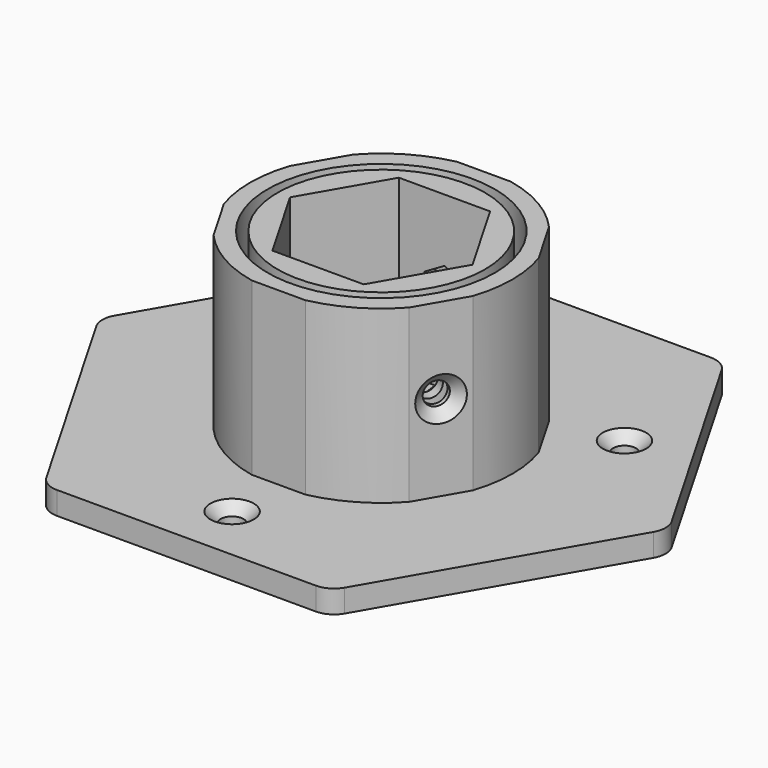
from build123d import *

# Parameters (mm, degrees)
SKETCH008_AS_DRAWN_R                      = 2
EXTRUDE009_DEPTH                          = 10
EXTRUDE009_ONTO_SKETCH008_ROLL_ANGLE      = 90
EXTRUDE009_ONTO_SKETCH008_PLACEMENT_ANGLE = 120
SKETCH007_AS_DRAWN_R                      = 2
EXTRUDE008_DEPTH                          = 10
EXTRUDE008_ONTO_SKETCH007_ROLL_ANGLE      = 90
EXTRUDE008_ONTO_SKETCH007_PLACEMENT_ANGLE = -120
SKETCH006_R                               = 2
EXTRUDE007_DEPTH                          = 10
EXTRUDE006_DEPTH                          = 2.4
EXTRUDE006_ONTO_SKETCH005_ROLL_ANGLE      = 90
EXTRUDE006_ONTO_SKETCH005_PLACEMENT_ANGLE = -120
EXTRUDE005_DEPTH                          = 2.4
EXTRUDE005_ONTO_SKETCH004_ROLL_ANGLE      = 90
EXTRUDE005_ONTO_SKETCH004_PLACEMENT_ANGLE = 120
EXTRUDE004_DEPTH                          = 2.4
SKETCH001_R                               = 18.2
EXTRUDE001_DEPTH                          = 30
SKETCH002_R                               = 19.9
EXTRUDE002_DEPTH                          = 30
CHAMFER_SIZE                              = 1.8
SKETCH009_R                               = 2
EXTRUDE010_DEPTH                          = 10
EXTRUDE_DEPTH                             = 4
CHAMFER001_SIZE                           = 1.8
FILLET_R                                  = 4


with BuildPart() as extrude009:
    # Sketch008 as drawn → Extrude009 (new)
    with BuildSketch(Plane.XY):
        with Locations((16.9806321375, 18.9983442041)):
            Circle(SKETCH008_AS_DRAWN_R)
    extrude(amount=-EXTRUDE009_DEPTH)


with BuildPart() as extrude009_1:
    # Extrude009 onto Sketch008 roll: moved
    add(extrude009.part.rotate(Axis((0, 0, 0), (1, 0, 0)), EXTRUDE009_ONTO_SKETCH008_ROLL_ANGLE))


with BuildPart() as extrude009_2:
    # Extrude009 onto Sketch008 placement: moved
    add(extrude009_1.part.moved(Location((64.4109613985, 37.1876859022, 0))).rotate(Axis((64.4109613985, 37.1876859022, 0), (0, 0, 1)), EXTRUDE009_ONTO_SKETCH008_PLACEMENT_ANGLE))


with BuildPart() as extrude008:
    # Sketch007 as drawn → Extrude008 (new)
    with BuildSketch(Plane.XY):
        with Locations((-86.9724395653, 18.986573062)):
            Circle(SKETCH007_AS_DRAWN_R)
    extrude(amount=-EXTRUDE008_DEPTH)


with BuildPart() as extrude008_1:
    # Extrude008 onto Sketch007 roll: moved
    add(extrude008.part.rotate(Axis((0, 0, 0), (1, 0, 0)), EXTRUDE008_ONTO_SKETCH007_ROLL_ANGLE))


with BuildPart() as extrude008_2:
    # Extrude008 onto Sketch007 placement: moved
    add(extrude008_1.part.moved(Location((40.5890386015, -23.4340923627, 0))).rotate(Axis((40.5890386015, -23.4340923627, 0), (0, 0, 1)), EXTRUDE008_ONTO_SKETCH007_PLACEMENT_ANGLE))


with BuildPart() as extrude007:
    # Sketch006 (on Face29 of Cut002) → Extrude007 (new body)
    with BuildSketch(Plane.XZ.offset(-76.2764064606)):
        with Locations((70.0251825662, 18.9573489466)):
            Circle(SKETCH006_R)
    extrude(amount=-EXTRUDE007_DEPTH)


with BuildPart() as extrude006:
    # Sketch005 as drawn → Extrude006 (new)
    with BuildSketch(Plane.XY):
        Polygon((-86.9724395653, 14.9451211777), (-83.4724395653, 16.9658471198), (-83.4724395653, 21.0072990042), (-86.9724395653, 23.0280249463), (-90.4724395653, 21.0072990042), (-90.4724395653, 16.9658471198), align=None)
    extrude(amount=-EXTRUDE006_DEPTH)


with BuildPart() as extrude006_1:
    # Extrude006 onto Sketch005 roll: moved
    add(extrude006.part.rotate(Axis((0, 0, 0), (1, 0, 0)), EXTRUDE006_ONTO_SKETCH005_ROLL_ANGLE))


with BuildPart() as extrude006_2:
    # Extrude006 onto Sketch005 placement: moved
    add(extrude006_1.part.moved(Location((38.5105776324, -22.2340923627, 0))).rotate(Axis((38.5105776324, -22.2340923627, 0), (0, 0, 1)), EXTRUDE006_ONTO_SKETCH005_PLACEMENT_ANGLE))


with BuildPart() as extrude005:
    # Sketch004 as drawn → Extrude005 (new)
    with BuildSketch(Plane.XY):
        Polygon((16.9806321375, 14.9568923197), (20.4806321375, 16.9776182619), (20.4806321375, 21.0190701462), (16.9806321375, 23.0397960884), (13.4806321375, 21.0190701462), (13.4806321375, 16.9776182619), align=None)
    extrude(amount=-EXTRUDE005_DEPTH)


with BuildPart() as extrude005_1:
    # Extrude005 onto Sketch004 roll: moved
    add(extrude005.part.rotate(Axis((0, 0, 0), (1, 0, 0)), EXTRUDE005_ONTO_SKETCH004_ROLL_ANGLE))


with BuildPart() as extrude005_2:
    # Extrude005 onto Sketch004 placement: moved
    add(extrude005_1.part.moved(Location((66.4894223676, 38.3876859022, 0))).rotate(Axis((66.4894223676, 38.3876859022, 0), (0, 0, 1)), EXTRUDE005_ONTO_SKETCH004_PLACEMENT_ANGLE))


with BuildPart() as extrude004:
    # Sketch003 (on Face4 of Extrude001) → Extrude004 (new body)
    with BuildSketch(Plane.XZ.offset(-73.8764064606)):
        Polygon((70.0251825662, 14.9158970623), (73.5251825662, 16.9366230045), (73.5251825662, 20.9780748888), (70.0251825662, 22.9988008309), (66.5251825662, 20.9780748888), (66.5251825662, 16.9366230045), align=None)
    extrude(amount=-EXTRUDE004_DEPTH)


with BuildPart() as cut005:
    # Sketch001 (on Face8 of Extrude) → Extrude001 (new body)
    with BuildSketch(Plane.XY.offset(4)):
        with Locations((70, 60.02)):
            Circle(SKETCH001_R)
        Polygon((78, 46.1635935394), (86, 60.02), (78, 73.8764064606), (62, 73.8764064606), (54, 60.02), (62, 46.1635935394), align=None, mode=Mode.SUBTRACT)
    extrude(amount=EXTRUDE001_DEPTH)

    # Cut: cut Extrude004
    add(extrude004.part, mode=Mode.SUBTRACT)

    # Cut001: cut Extrude005
    add(extrude005_2.part, mode=Mode.SUBTRACT)

    # Cut002: cut Extrude006
    add(extrude006_2.part, mode=Mode.SUBTRACT)

    # Cut003: cut Extrude007
    add(extrude007.part, mode=Mode.SUBTRACT)

    # Cut004: cut Extrude008
    add(extrude008_2.part, mode=Mode.SUBTRACT)

    # Cut005: cut Extrude009
    add(extrude009_2.part, mode=Mode.SUBTRACT)


with BuildPart() as chamfer_body:
    # Sketch002 (on Face8 of Extrude) → Extrude002 (new body)
    with BuildSketch(Plane.XY.offset(4)):
        with BuildLine():
            Line((87.1547921201, 44.6996505485), (91.8452078799, 52.8236889531))
            ThreePointArc((91.8452078799, 52.8236889531), (93, 60.02), (91.8452078799, 67.2163110469))
            Line((91.8452078799, 67.2163110469), (87.1547921201, 75.3403494515))
            ThreePointArc((87.1547921201, 75.3403494515), (81.5, 79.938584287), (74.6904157598, 82.5366604984))
            Line((74.6904157598, 82.5366604984), (65.3095842402, 82.5366604984))
            ThreePointArc((65.3095842402, 82.5366604984), (58.5, 79.938584287), (52.8452078799, 75.3403494515))
            Line((52.8452078799, 75.3403494515), (48.1547921201, 67.2163110469))
            ThreePointArc((48.1547921201, 67.2163110469), (47, 60.02), (48.1547921201, 52.8236889531))
            Line((48.1547921201, 52.8236889531), (52.8452078799, 44.6996505485))
            ThreePointArc((52.8452078799, 44.6996505485), (58.5, 40.101415713), (65.3095842402, 37.5033395016))
            Line((65.3095842402, 37.5033395016), (74.6904157598, 37.5033395016))
            ThreePointArc((74.6904157598, 37.5033395016), (81.5, 40.101415713), (87.1547921201, 44.6996505485))
        make_face()
        with Locations((70, 60.02)):
            Circle(SKETCH002_R, mode=Mode.SUBTRACT)
    extrude(amount=EXTRUDE002_DEPTH)

    # Cut006: cut Extrude009
    add(extrude009_2.part, mode=Mode.SUBTRACT)

    # Cut007: cut Extrude007
    add(extrude007.part, mode=Mode.SUBTRACT)

    # Cut008: cut Extrude008
    add(extrude008_2.part, mode=Mode.SUBTRACT)

    # Chamfer
    chamfer_edges = [chamfer_body.edges().sort_by_distance(p)[0] for p in [
        (90.496797, 50.488174, 18.986573),
        (68.025183, 82.53666, 18.957349),
        (51.499106, 47.031167, 18.998344),
    ]]
    chamfer(chamfer_edges, length=CHAMFER_SIZE)


with BuildPart() as extrude010:
    # Sketch009 (on Face8 of Extrude) → Extrude010 (new body)
    with BuildSketch(Plane.XY.offset(4)):
        with Locations((98.8397459622, 77.2724130946)):
            Circle(SKETCH009_R)
        with Locations((41.1602540378, 77.2724130946)):
            Circle(SKETCH009_R)
        with Locations((70, 27.3205078108)):
            Circle(SKETCH009_R)
    extrude(amount=-EXTRUDE010_DEPTH)


with BuildPart() as fillet_body:
    # Sketch → Extrude (new body)
    with BuildSketch(Plane.XY):
        Polygon((120, 60.621778), (95, 103.9230481892), (45, 103.9230481892), (20, 60.621778), (45, 17.3205078108), (95, 17.3205078108), align=None)
    extrude(amount=EXTRUDE_DEPTH)

    # Cut009: cut Extrude010
    add(extrude010.part, mode=Mode.SUBTRACT)

    # Chamfer001
    chamfer001_edges = [fillet_body.edges().sort_by_distance(p)[0] for p in [
        (68, 27.320508, 4),
        (39.160254, 77.272413, 4),
        (96.839746, 77.272413, 4),
    ]]
    chamfer(chamfer001_edges, length=CHAMFER001_SIZE)

    # Fillet
    fillet_edges = [fillet_body.edges().sort_by_distance(p)[0] for p in [
        (120, 60.621778, 2),
        (95, 103.923048, 2),
        (95, 17.320508, 2),
        (45, 103.923048, 2),
        (45, 17.320508, 2),
        (20, 60.621778, 2),
    ]]
    fillet(fillet_edges, radius=FILLET_R)


solid = Compound([cut005.part, chamfer_body.part, fillet_body.part])
